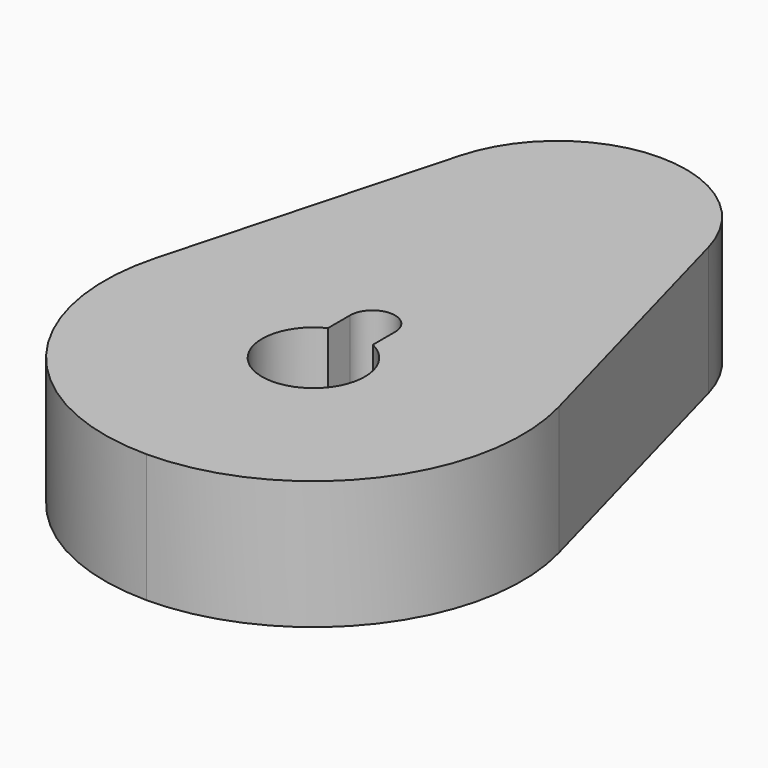
from build123d import *

# Parameters (mm, degrees)
F1_DEPTH = 2


with BuildPart() as f1:
    # F0 (on Top) → F1 (new body)
    with BuildSketch(Plane.XY):
        with BuildLine():
            ThreePointArc((1.929506, 5.276316), (1.213954, 6.339439), (0, 6.75))
            ThreePointArc((0, 6.75), (-1.213954, 6.339439), (-1.929506, 5.276316))
            Line((-1.929506, 5.276316), (-3.135447, 0.855263))
            ThreePointArc((-3.135447, 0.855263), (-2.582838, -1.972675), (0, -3.25))
            ThreePointArc((0, -3.25), (2.582838, -1.972675), (3.135447, 0.855263))
            Line((3.135447, 0.855263), (1.929506, 5.276316))
        make_face()
        with BuildLine():
            ThreePointArc((0.35, 0.719375), (0, -0.8), (-0.35, 0.719375))
            Line((-0.35, 0.719375), (-0.35, 1.15))
            ThreePointArc((-0.35, 1.15), (0, 1.5), (0.35, 1.15))
            Line((0.35, 1.15), (0.35, 0.719375))
        make_face(mode=Mode.SUBTRACT)
    extrude(amount=F1_DEPTH)


solid = f1.part
